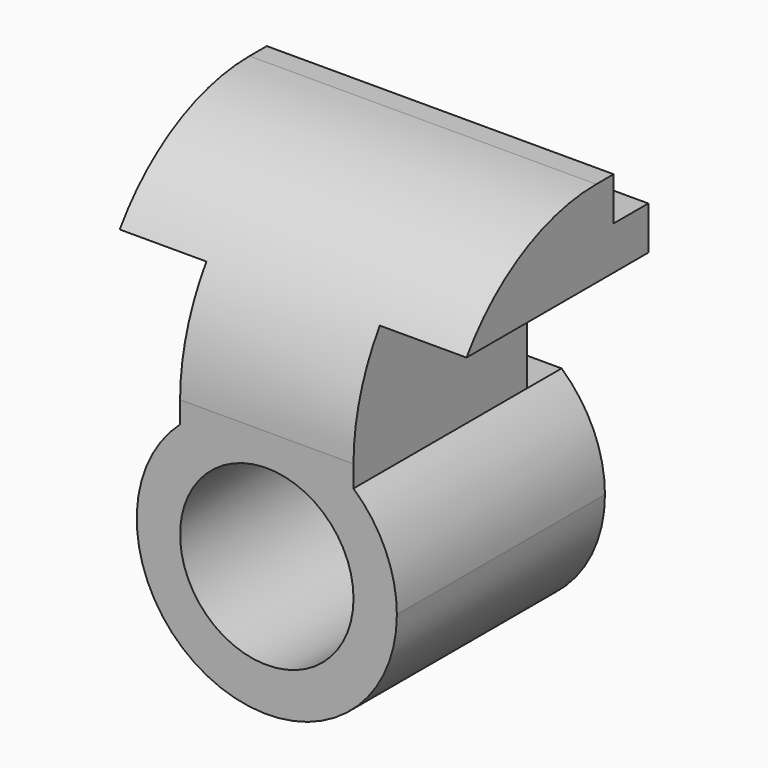
from build123d import *

# Parameters (mm, degrees)
F0_R     = 25.4
F1_DEPTH = 76.2
F2_W     = 12.7
F2_H     = 12.7
F3_DEPTH = 101.601
F4_R     = 57.15
F5_W     = 12.7
F5_H     = 38.0991366858
F6_DEPTH = 76.201


with BuildPart() as f1:
    # F0 (on Front) → F1 (new body)
    with BuildSketch(Plane.XZ):
        with BuildLine():
            Line((50.8, -12.7), (50.8, 12.7))
            Line((50.8, 12.7), (-50.8, 12.7))
            Line((-50.8, 12.7), (-50.8, -12.7))
            Line((-50.8, -12.7), (-25.4, -12.7))
            Line((-25.4, -12.7), (-25.4, -50.7991366858))
            ThreePointArc((-25.4, -50.7991366858), (0, -41.0972), (25.4, -50.7991366858))
            Line((25.4, -50.7991366858), (25.4, -12.7))
            Line((25.4, -12.7), (50.8, -12.7))
        make_face()
        with BuildLine():
            ThreePointArc((38.1, -79.1972), (34.7803824016, -63.6429401333), (25.4, -50.7991366858))
            ThreePointArc((25.4, -50.7991366858), (0, -41.0972), (-25.4, -50.7991366858))
            ThreePointArc((-25.4, -50.7991366858), (-15.5542598667, -113.9775824016), (38.1, -79.1972))
        make_face()
        with Locations((0, -79.1972)):
            Circle(F0_R, mode=Mode.SUBTRACT)
    extrude(amount=F1_DEPTH)

    # F2 (on face) → F3 (cut, through all)
    with BuildSketch(Plane(origin=(-50.8, 0, 0), x_dir=(0, -1, 0), z_dir=(-1, 0, 0))):
        with Locations((6.35, 6.35)):
            Rectangle(F2_W, F2_H)
    extrude(amount=-F3_DEPTH, mode=Mode.SUBTRACT)

    # F4
    f4_edges = [f1.edges().sort_by_distance(p)[0] for p in [
        (0, -76.2, 12.7),
    ]]
    fillet(f4_edges, radius=F4_R)

    # F5 (on face) → F6 (cut, through all)
    with BuildSketch(Plane(origin=(-25.4, 0, 0), x_dir=(0, -1, 0), z_dir=(-1, 0, 0))):
        with Locations((6.35, -31.7495683429)):
            Rectangle(F5_W, F5_H)
    extrude(amount=-F6_DEPTH, mode=Mode.SUBTRACT)


solid = f1.part
